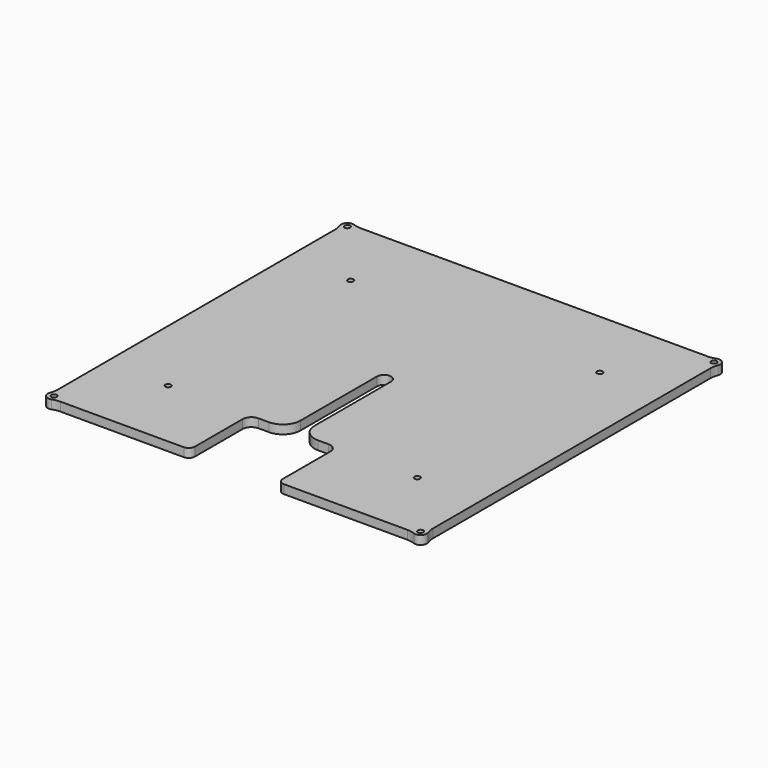
from build123d import *

# Parameters (mm, degrees)
SKETCH038_R = 1.6
PAD_DEPTH   = 5


with BuildPart() as part:
    # Sketch038 → Pad (new body)
    with BuildSketch(Plane.XY):
        with BuildLine():
            ThreePointArc((4, 0), (0, 4), (-4, 0))
            Line((-4, 0), (-4, -54.5))
            ThreePointArc((-14, -64.5), (-6.928932, -61.571068), (-4, -54.5))
            Line((-14, -64.5), (-20, -64.5))
            ThreePointArc((-20, -64.5), (-23.535534, -65.964466), (-25, -69.5))
            Line((-25, -69.5), (-25, -103.46))
            ThreePointArc((-28.54, -107), (-26.036842, -105.963158), (-25, -103.46))
            Line((-98.92301, -107), (-28.54, -107))
            ThreePointArc((-98.92301, -107), (-101.113722, -107.201662), (-103.230804, -107.79987))
            ThreePointArc((-107.79987, -103.230804), (-107, -107), (-103.230804, -107.79987))
            ThreePointArc((-107.79987, -103.230804), (-107.201662, -101.113722), (-107, -98.92301))
            Line((-107, 98.92301), (-107, -98.92301))
            ThreePointArc((-107, 98.92301), (-107.201662, 101.113722), (-107.79987, 103.230804))
            ThreePointArc((-103.230804, 107.79987), (-107, 107), (-107.79987, 103.230804))
            ThreePointArc((-103.230804, 107.79987), (-101.113722, 107.201662), (-98.92301, 107))
            Line((98.92301, 107), (-98.92301, 107))
            ThreePointArc((98.92301, 107), (101.113722, 107.201662), (103.230804, 107.79987))
            ThreePointArc((107.79987, 103.230804), (107, 107), (103.230804, 107.79987))
            ThreePointArc((107.79987, 103.230804), (107.201662, 101.113722), (107, 98.92301))
            Line((107, -98.92301), (107, 98.92301))
            ThreePointArc((107, -98.92301), (107.201662, -101.113722), (107.79987, -103.230804))
            ThreePointArc((103.230804, -107.79987), (107, -107), (107.79987, -103.230804))
            ThreePointArc((103.230804, -107.79987), (101.113722, -107.201662), (98.92301, -107))
            Line((28.54, -107), (98.92301, -107))
            ThreePointArc((25, -103.46), (26.036842, -105.963158), (28.54, -107))
            Line((25, -103.46), (25, -69.5))
            ThreePointArc((25, -69.5), (23.535534, -65.964466), (20, -64.5))
            Line((20, -64.5), (14, -64.5))
            ThreePointArc((4, -54.5), (6.928932, -61.571068), (14, -64.5))
            Line((4, -54.5), (4, 0))
        make_face()
        with Locations((104.5, -104.5)):
            Circle(SKETCH038_R, mode=Mode.SUBTRACT)
        with Locations((104.5, 104.5)):
            Circle(SKETCH038_R, mode=Mode.SUBTRACT)
        with Locations((-104.5, -104.5)):
            Circle(SKETCH038_R, mode=Mode.SUBTRACT)
        with Locations((71, -65)):
            Circle(SKETCH038_R, mode=Mode.SUBTRACT)
        with Locations((71, 65)):
            Circle(SKETCH038_R, mode=Mode.SUBTRACT)
        with Locations((-104.5, 104.5)):
            Circle(SKETCH038_R, mode=Mode.SUBTRACT)
        with Locations((-71, -65)):
            Circle(SKETCH038_R, mode=Mode.SUBTRACT)
        with Locations((-71, 65)):
            Circle(SKETCH038_R, mode=Mode.SUBTRACT)
    extrude(amount=PAD_DEPTH)


solid = part.part
